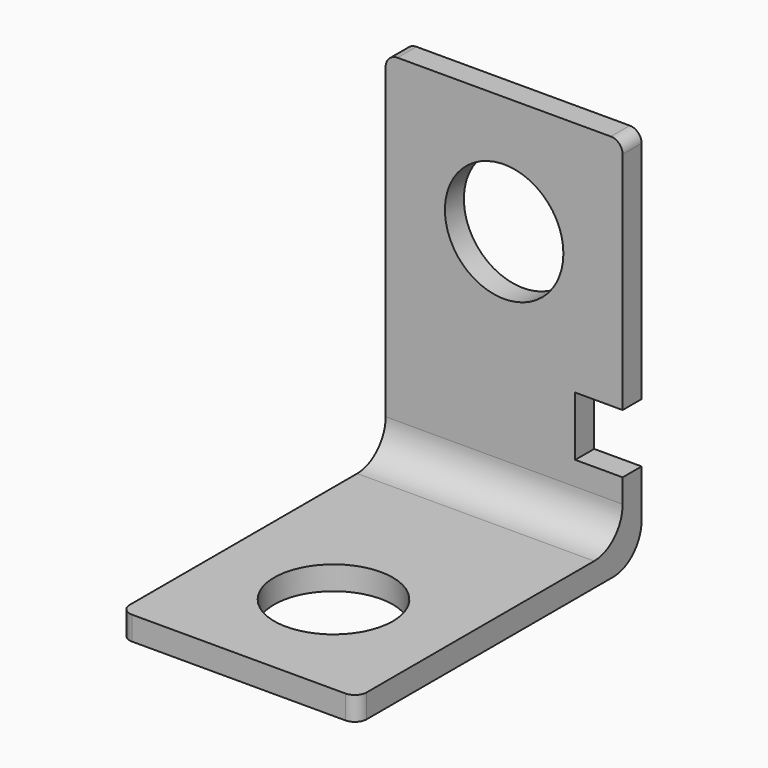
from build123d import *

# Parameters (mm, degrees)
F0_R     = 5
F1_DEPTH = 2
F2_W     = 20
F2_H     = 2
F3_DEPTH = 30
F4_R     = 3
F5_R     = 5
F6_DEPTH = 2.001
F7_R     = 1


with BuildPart() as f1:
    # F0 (on Front) → F1 (new body)
    with BuildSketch(Plane.XZ):
        Polygon((10, 15), (-10, 15), (-10, -15), (10, -15), (10, -10), (6, -10), (6, -5), (10, -5), align=None)
        with Locations((0, 5)):
            Circle(F0_R, mode=Mode.SUBTRACT)
    extrude(amount=F1_DEPTH)

    # F2 (on face) → F3 (join)
    with BuildSketch(Plane(origin=(0, 0, 0), x_dir=(-1, 0, 0), z_dir=(0, 1, 0))):
        with Locations((0, -16)):
            Rectangle(F2_W, F2_H)
    extrude(amount=-F3_DEPTH)

    # F4
    f4_edges = [f1.edges().sort_by_distance(p)[0] for p in [
        (0, -2, -15),
        (0, 0, -17),
    ]]
    fillet(f4_edges, radius=F4_R)

    # F5 (on face) → F6 (cut, through all)
    with BuildSketch(Plane.XY.offset(-15)):
        with Locations((0, -20)):
            Circle(F5_R)
    extrude(amount=-F6_DEPTH, mode=Mode.SUBTRACT)

    # F7
    f7_edges = [f1.edges().sort_by_distance(p)[0] for p in [
        (-10, -1, 15),
        (10, -1, 15),
        (-10, -30, -16),
        (10, -30, -16),
    ]]
    fillet(f7_edges, radius=F7_R)


solid = f1.part
